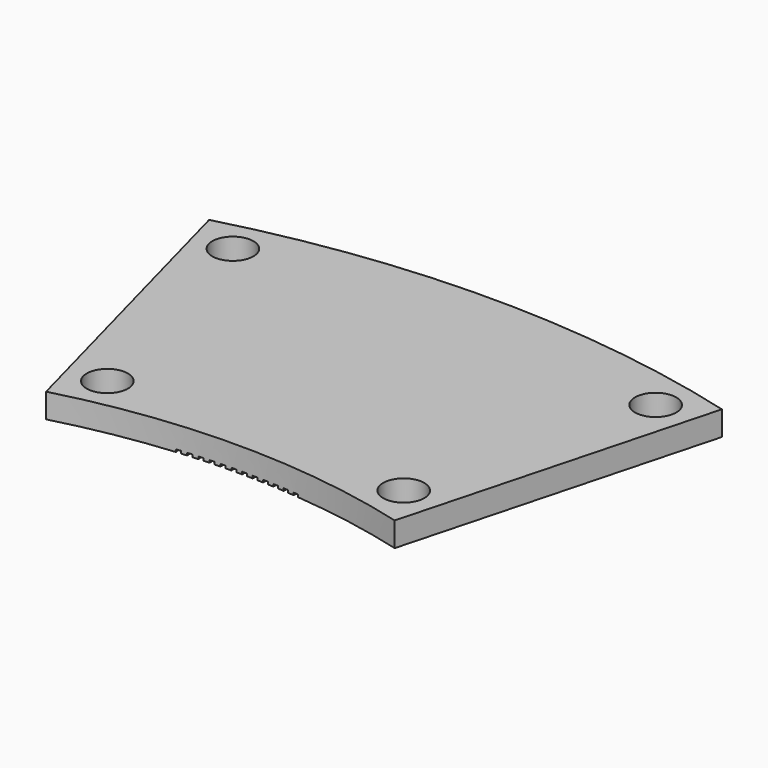
from build123d import *

# Parameters (mm, degrees)
F0_W          = 65
F0_H          = 5
F1_ANGLE_BACK = 15
F1_ANGLE      = 30
F3_DEPTH      = 0.5
F5_D          = 8.4328


with BuildPart() as f1:
    # F0 (on Right) → F1 (revolve)
    with BuildSketch(Plane.YZ, mode=Mode.PRIVATE) as f1_sk:
        with Locations((32.5, 2.5)):
            Rectangle(F0_W, F0_H)
    revolve(f1_sk.sketch.rotate(Axis((0, -138, 18.1028265506), (0, 0, -1)), -F1_ANGLE_BACK), axis=Axis((0, -138, 18.1028265506), (0, 0, -1)), revolution_arc=F1_ANGLE)

    # F2 (on face) → F3 (cut)
    with BuildSketch(Plane(origin=(0, 0, 0), x_dir=(1, 0, 0), z_dir=(0, 0, -1))):
        Polygon((-17.7241188623, -71.9769457125), (-11.4765199745, 3e-10), (-11.9784, 3e-10), (-5.7345541206, 71.9337082881), (-6.2326811376, 71.9769457131), (-18.7203728964, -71.8904708623), align=None)
        Polygon((-11.9784, 3e-10), (-11.4765199745, 3e-10), (-5.2364271036, 71.890470863), (-5.7345541206, 71.9337082881), align=None)
        Polygon((-14.3904012595, -72.2317256548), (-9.2739048409, 3e-10), (-10.2764104633, 3e-10), (-15.3879018995, -72.1610682199), align=None)
        Polygon((-10.2764104633, 3e-10), (-9.2739048409, 3e-10), (-4.1868765839, 71.8157112602), (-5.184377224, 71.886368695), align=None)
        Polygon((-11.05306095, -72.4335808844), (-7.0761095593, 3e-10), (-8.0776156937, 3e-10), (-12.0515570806, -72.3787586524), align=None)
        Polygon((-8.0776156937, 3e-10), (-7.0761095593, 3e-10), (-3.1362720404, 71.7576131981), (-4.1347681711, 71.8124354301), align=None)
        Polygon((-7.7129380916, -72.5824605854), (-4.8820145346, 3e-10), (-5.8827748571, 3e-10), (-8.7121783467, -72.5434873575), align=None)
        Polygon((-5.8827748571, 3e-10), (-4.8820145346, 3e-10), (-2.0848779572, 71.7161913026), (-3.0841182124, 71.7551645305), align=None)
        Polygon((-4.3708735422, -72.678327278), (-2.6905077568, 3e-10), (-3.6907750019, 3e-10), (-5.3706063685, -72.6552128656), align=None)
        Polygon((-3.6907750019, 3e-10), (-2.6905077568, 3e-10), (-1.0329590172, 71.6914560015), (-2.0326918435, 71.714570414), align=None)
        Polygon((-1.0277086488, -72.7211568285), (-0.5004825388, 3e-10), (-1.5005088195, 3e-10), (-2.0276823688, -72.7139070503), align=None)
        Polygon((-1.5005088195, 3e-10), (-0.5004825388, 3e-10), (0.0192199648, 71.6834135218), (-0.9807537552, 71.6906633), align=None)
        Polygon((5.3267903546, 71.8976905392), (11.6665424492, 3e-10), (18.0111294073, -71.9525216273), (19.0072643041, -71.8646850327), (6.3229252514, 71.9855271339), align=None)
        Polygon((4.2773430078, 71.8214963276), (9.4634593874, 3e-10), (10.4660630255, 3e-10), (5.274746131, 71.8935172258), align=None)
        Polygon((10.4660630255, 3e-10), (9.4634593874, 3e-10), (14.6777631894, -72.2118583428), (15.6751663126, -72.1398374447), align=None)
        Polygon((3.2268188627, 71.7619622003), (7.2652930626, 3e-10), (8.2668753034, 3e-10), (4.2252391215, 71.8181492712), align=None)
        Polygon((8.2668753034, 3e-10), (7.2652930626, 3e-10), (11.3407019231, -72.4182753472), (12.3391221818, -72.3620882763), align=None)
        Polygon((2.1754823833, 71.7191031448), (5.0709231192, 3e-10), (6.071737735, 3e-10), (3.1746684306, 71.7594422436), align=None)
        Polygon((6.071737735, 3e-10), (5.0709231192, 3e-10), (8.0007856957, -72.571720676), (8.999971743, -72.5313815772), align=None)
        Polygon((1.1235982379, 71.6929299507), (2.8792369834, 3e-10), (3.8795367771, 3e-10), (2.123298534, 71.7174109221), align=None)
        Polygon((3.8795367771, 3e-10), (2.8792369834, 3e-10), (4.6588553133, -72.6721557002), (5.6585556094, -72.6476747287), align=None)
        Polygon((0.0714312325, 71.6834492068), (0.6891275978, 3e-10), (1.6891647234, 3e-10), (1.0713941082, 71.6920658881), align=None)
        Polygon((1.6891647234, 3e-10), (0.6891275978, 3e-10), (1.315752089, -72.7195551358), (2.3157149647, -72.7109384546), align=None)
    extrude(amount=-F3_DEPTH, mode=Mode.SUBTRACT)

    # F5 (through all)
    with Locations(Plane(origin=(0, 0, 0), x_dir=(1, 0, 0), z_dir=(0, 0, -1))):
        with Locations((-30.363664634, -4.2965139067), (30.363664634, -4.2965139067), (43.3174317129, -52.6406307947), (-43.3174317129, -52.6406307947)):
            Hole(F5_D / 2)


solid = f1.part
